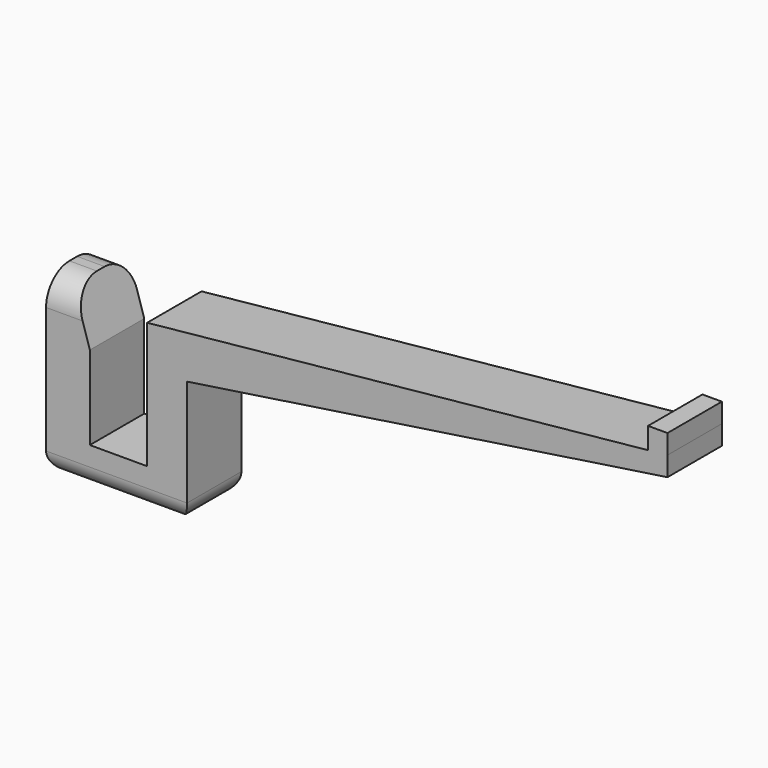
from build123d import *

# Parameters (mm, degrees)
F1_DEPTH = 3.5
F2_R     = 3
F3_R     = 2


with BuildPart() as f1:
    # F0 (on Front) → F1 (new body, symmetric)
    with BuildSketch(Plane.XZ):
        Polygon((-6.013547, -8.613056), (-11.913547, -8.613056), (-11.913547, 0), (-13.588547, 5.386944), (-15.263547, 5.386944), (-16.413547, 5.386944), (-16.413547, 0.386944), (-16.413547, -12.613056), (-1.913547, -12.613056), (-1.913547, -3.613056), (-1.913547, 0.386944), (47.532924, 7.806279), (47.529825, 9.806276), (47.529825, 11.806276), (45.529825, 11.806276), (45.529825, 9.603849), (-6.013547, 4.386944), (-6.013547, 0.386944), align=None)
    extrude(amount=F1_DEPTH, both=True)

    # F2
    f2_edges = [f1.edges().sort_by_distance(p)[0] for p in [
        (-15.001047, -3.5, 5.386944),
        (-15.001047, 3.5, 5.386944),
    ]]
    fillet(f2_edges, radius=F2_R)

    # F3
    f3_edges = [f1.edges().sort_by_distance(p)[0] for p in [
        (-16.413547, 0, -12.613056),
        (-9.163547, 3.5, -12.613056),
        (-1.913547, 0, -12.613056),
        (-9.163547, -3.5, -12.613056),
    ]]
    fillet(f3_edges, radius=F3_R)


solid = f1.part
